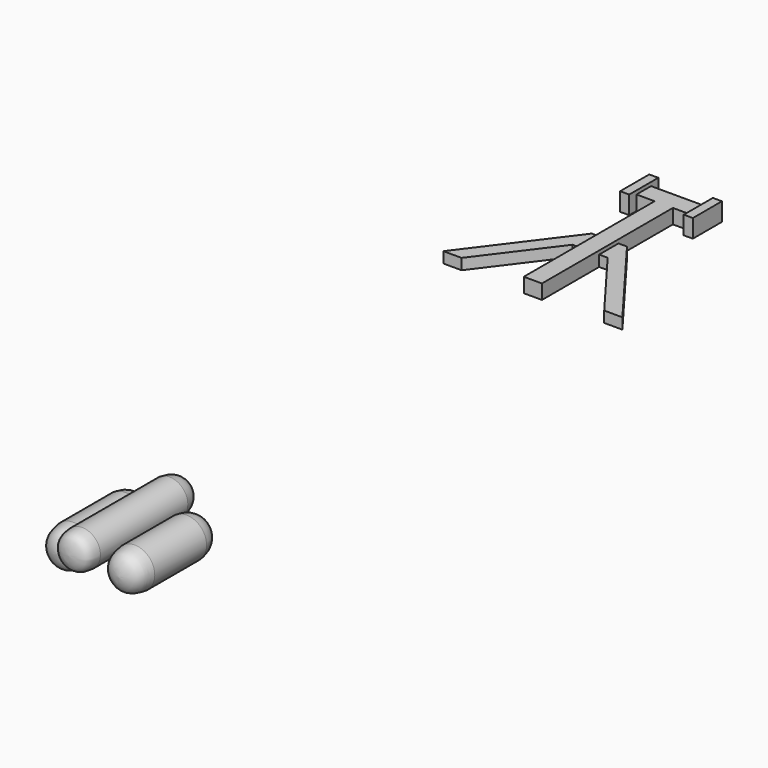
from build123d import *

# Parameters (mm, degrees)
F0_W     = 1
F0_H     = 9
F0_H_2   = 1
F1_DEPTH = 0.8
F2_DEPTH = 1
F4_DEPTH = 0.6


with BuildPart() as f1:
    # F0 (on Top) → F1 (new body)
    with BuildSketch(Plane.XY):
        with Locations((0.5, 4.5)):
            Rectangle(F0_W, F0_H)
        with Locations((-0.5, 9.5)):
            Rectangle(F0_W, F0_H_2)
        with Locations((0.5, 9.5)):
            Rectangle(F0_W, F0_H_2)
        with Locations((1.5, 9.5)):
            Rectangle(F0_W, F0_H_2)
        Polygon((-1, 8.5), (-1, 9), (-1, 10), (-1, 10.5), (-1.5, 10.5), (-1.5, 8.5), align=None)
        Polygon((2, 10), (2, 9), (2, 8.5), (2.5, 8.5), (2.5, 10.5), (2, 10.5), align=None)
    extrude(amount=F1_DEPTH)

    # F0 (on Top) → F2 (join)
    with BuildSketch(Plane.XY):
        Polygon((2, 10), (2, 9), (2, 8.5), (2.5, 8.5), (2.5, 10.5), (2, 10.5), align=None)
        Polygon((-1, 8.5), (-1, 9), (-1, 10), (-1, 10.5), (-1.5, 10.5), (-1.5, 8.5), align=None)
    extrude(amount=F2_DEPTH)

    # F3 (on Top) → F4 (join)
    with BuildSketch(Plane.XY):
        Polygon((1.468523, 5.261297), (0.5, 5.261297), (-0.468523, 5.261297), (-4.423744, 0), (-3.423744, 0), (-0.468523, 3.931081), (0.5, 3.931081), (1.468523, 3.931081), (4.423744, 0), (5.423744, 0), align=None)
    extrude(amount=F4_DEPTH)


with BuildPart() as f6:
    # F5 (on Top) → F6 (revolve)
    with BuildSketch(Plane.XY):
        with BuildLine():
            add(Edge.make_bspline(
                [(0, -23.29011), (0.771088, -23.357442), (0.928936, -23.834245), (1, -24.355026)],
                knots=[0, 0, 0, 0, 1.460837, 1.460837, 1.460837, 1.460837], degree=3))
            Line((0, -23.29011), (0, -31.29011))
            add(Edge.make_bspline(
                [(0, -31.29011), (0.834806, -31.247087), (0.958809, -31.007612), (1, -30.364284)],
                knots=[0, 0, 0, 0, 1.362774, 1.362774, 1.362774, 1.362774], degree=3))
            Line((1, -30.364284), (1, -24.355026))
        make_face()
    revolve(axis=Axis((0, -27.29011, 0), (0, -1, 0)))

    # F8 (on offset) → F9 (revolve)
    with BuildSketch(Plane.XY.offset(-1)):
        with BuildLine():
            Line((1.7, -24.240119), (1.7, -29.998835))
            add(Edge.make_bspline(
                [(1.7, -29.998835), (2.560772, -29.92416), (2.700339, -29.602965), (2.8, -28.87789)],
                knots=[0, 0, 0, 0, 1.570515, 1.570515, 1.570515, 1.570515], degree=3))
            Line((2.8, -28.87789), (2.8, -25.316736))
            add(Edge.make_bspline(
                [(1.7, -24.240119), (2.432765, -24.324562), (2.705333, -24.611963), (2.8, -25.316736)],
                knots=[0, 0, 0, 0, 1.539189, 1.539189, 1.539189, 1.539189], degree=3))
        make_face()
    revolve(axis=Axis((1.7, -27.119477, -1), (0, 1, 0)))

    # F8 (on offset) → F10 (revolve)
    with BuildSketch(Plane.XY.offset(-1)):
        with BuildLine():
            add(Edge.make_bspline(
                [(-1.7, -29.998835), (-2.560772, -29.92416), (-2.700339, -29.602965), (-2.8, -28.87789)],
                knots=[0, 0, 0, 0, 1.570515, 1.570515, 1.570515, 1.570515], degree=3))
            Line((-1.7, -29.998835), (-1.7, -24.240119))
            add(Edge.make_bspline(
                [(-1.7, -24.240119), (-2.432765, -24.324562), (-2.705333, -24.611963), (-2.8, -25.316736)],
                knots=[0, 0, 0, 0, 1.539189, 1.539189, 1.539189, 1.539189], degree=3))
            Line((-2.8, -25.316736), (-2.8, -28.87789))
        make_face()
    revolve(axis=Axis((-1.7, -27.119477, -1), (0, 1, 0)))


solid = Compound([f1.part, f6.part])
